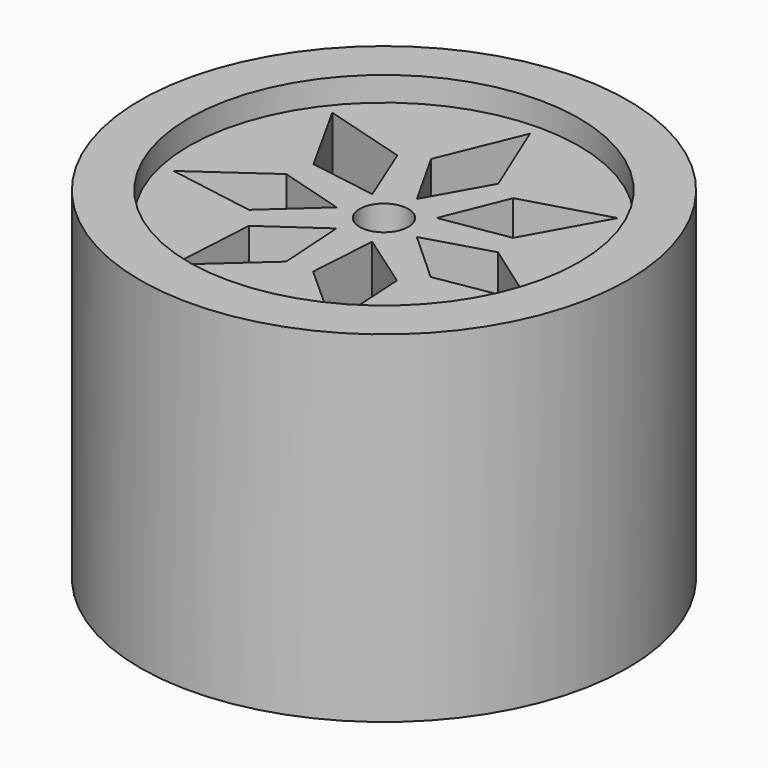
from build123d import *

# Parameters (mm, degrees)
F0_R     = 2
F0_R_2   = 0.25
F1_DEPTH = 1.5
F0_R_3   = 2.5
F2_DEPTH = 1.75


with BuildPart() as f1:
    # F0 (on Top) → F1 (new body, symmetric)
    with BuildSketch(Plane.XY):
        Circle(F0_R)
        Polygon((-0.811955, -1.686041), (-0.759163, -0.782499), (-0.183222, -0.380465), (-0.138452, -1.081418), align=None, mode=Mode.SUBTRACT)
        Polygon((-1.824446, -0.416418), (-1.085113, 0.105657), (-0.411697, -0.093967), (-0.93181, -0.566007), align=None, mode=Mode.SUBTRACT)
        Polygon((0.811955, -1.686041), (0.138452, -1.081418), (0.183222, -0.380465), (0.759163, -0.782499), align=None, mode=Mode.SUBTRACT)
        Polygon((1.824446, -0.416418), (0.93181, -0.566007), (0.411697, -0.093967), (1.085113, 0.105657), align=None, mode=Mode.SUBTRACT)
        Polygon((-1.463092, 1.166777), (-0.593951, 0.914252), (-0.330155, 0.26329), (-1.023496, 0.375619), align=None, mode=Mode.SUBTRACT)
        Circle(F0_R_2, mode=Mode.SUBTRACT)
        Polygon((-0.344468, 1.034396), (0, 1.871365), (0.344468, 1.034396), (0, 0.422285), align=None, mode=Mode.SUBTRACT)
        Polygon((1.463092, 1.166777), (1.023496, 0.375619), (0.330155, 0.26329), (0.593951, 0.914252), align=None, mode=Mode.SUBTRACT)
        Circle(F0_R)
        Polygon((-0.811955, -1.686041), (-0.759163, -0.782499), (-0.183222, -0.380465), (-0.138452, -1.081418), align=None, mode=Mode.SUBTRACT)
        Polygon((-1.824446, -0.416418), (-1.085113, 0.105657), (-0.411697, -0.093967), (-0.93181, -0.566007), align=None, mode=Mode.SUBTRACT)
        Polygon((0.811955, -1.686041), (0.138452, -1.081418), (0.183222, -0.380465), (0.759163, -0.782499), align=None, mode=Mode.SUBTRACT)
        Polygon((1.824446, -0.416418), (0.93181, -0.566007), (0.411697, -0.093967), (1.085113, 0.105657), align=None, mode=Mode.SUBTRACT)
        Polygon((-1.463092, 1.166777), (-0.593951, 0.914252), (-0.330155, 0.26329), (-1.023496, 0.375619), align=None, mode=Mode.SUBTRACT)
        Circle(F0_R_2, mode=Mode.SUBTRACT)
        Polygon((-0.344468, 1.034396), (0, 1.871365), (0.344468, 1.034396), (0, 0.422285), align=None, mode=Mode.SUBTRACT)
        Polygon((1.463092, 1.166777), (1.023496, 0.375619), (0.330155, 0.26329), (0.593951, 0.914252), align=None, mode=Mode.SUBTRACT)
    extrude(amount=F1_DEPTH, both=True)

    # F0 (on Top) → F2 (join, symmetric)
    with BuildSketch(Plane.XY):
        Circle(F0_R_3)
        Circle(F0_R, mode=Mode.SUBTRACT)
    extrude(amount=F2_DEPTH, both=True)


solid = f1.part
